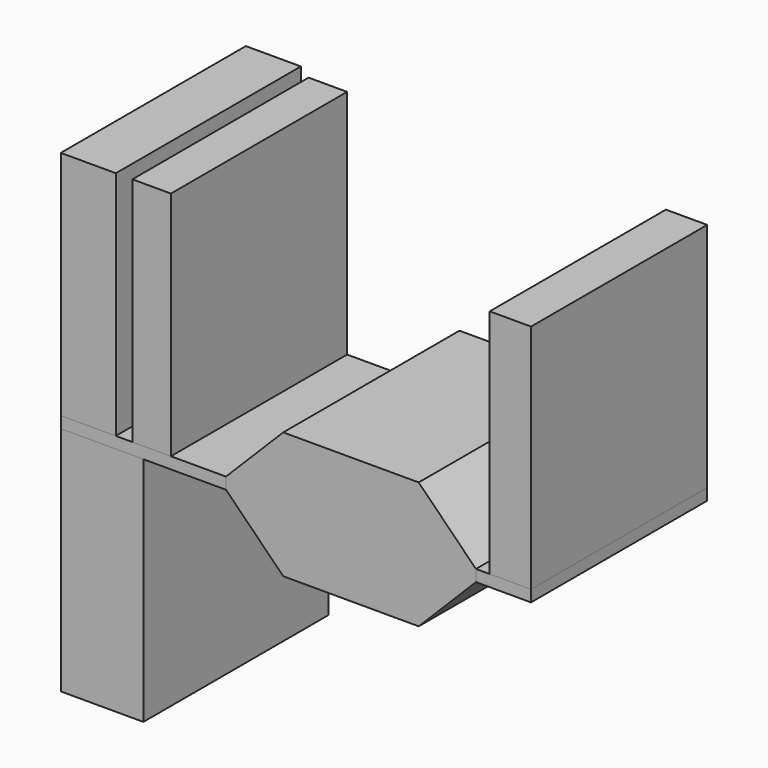
from build123d import *

# Parameters (mm, degrees)
F1_DEPTH  = 400
F2_W      = 400
F2_H      = 21
F3_DEPTH  = 100
F4_DEPTH  = 300
F5_W      = 100
F5_H      = 20
F5_H_2    = 400
F6_DEPTH  = 420
F7_W      = 70
F7_H      = 400
F8_DEPTH  = 420
F9_W      = 150
F9_H      = 20
F9_H_2    = 400
F10_DEPTH = 420
F11_W     = 75
F11_H     = 400
F12_DEPTH = 420


with BuildPart() as f1:
    # F0 (on Front) → F1 (new body)
    with BuildSketch(Plane.XZ):
        Polygon((-228.1835166094, -0.4122031702), (-124.140133619, -104.8906109595), (121.8598512371, -104.9769289125), (225.8164833906, -0.4122031702), (225.8164833906, 20.5877968298), (121.8164833906, 125.1093890405), (-124.1835166094, 125.1093890405), (-228.1835166094, 20.5877968298), align=None)
    extrude(amount=F1_DEPTH)


with BuildPart() as f3:
    # F2 (on face) → F3 (new body)
    with BuildSketch(Plane.YZ.offset(225.8164833906)):
        with Locations((-200, 10.0877968298)):
            Rectangle(F2_W, F2_H)
    extrude(amount=F3_DEPTH)


with BuildPart() as f4:
    # F4 (new): a face of the model
    f4_faces = [f1.part.faces().sort_by_distance(p)[0] for p in [
        (-228.1835166094, -200, 10.0877968298),
    ]]
    extrude(f4_faces, amount=F4_DEPTH)


with BuildPart() as f6:
    # F5 (on face) → F6 (new body)
    with BuildSketch(Plane.XY.offset(20.5877968298)):
        with Locations((-478.1835166094, 10)):
            Rectangle(F5_W, F5_H)
        with Locations((-478.1835166094, -200)):
            Rectangle(F5_W, F5_H_2)
    extrude(amount=F6_DEPTH)


with BuildPart() as f8:
    # F7 (on face) → F8 (new body, through all)
    with BuildSketch(Plane.XY.offset(20.5877968298)):
        with Locations((-363.1835166094, -200)):
            Rectangle(F7_W, F7_H)
    extrude(amount=F8_DEPTH)


with BuildPart() as f10:
    # F9 (on face) → F10 (new body)
    with BuildSketch(Plane(origin=(0, 0, -0.4122031702), x_dir=(1, 0, 0), z_dir=(0, 0, -1))):
        with Locations((-453.1835166094, -10)):
            Rectangle(F9_W, F9_H)
        with Locations((-453.1835166094, 200)):
            Rectangle(F9_W, F9_H_2)
    extrude(amount=F10_DEPTH)


with BuildPart() as f12:
    # F11 (on face) → F12 (new body, through all)
    with BuildSketch(Plane.XY.offset(20.5877968298)):
        with Locations((288.3164833906, -200)):
            Rectangle(F11_W, F11_H)
    extrude(amount=F12_DEPTH)


solid = Compound([f1.part, f3.part, f4.part, f6.part, f8.part, f10.part, f12.part])
